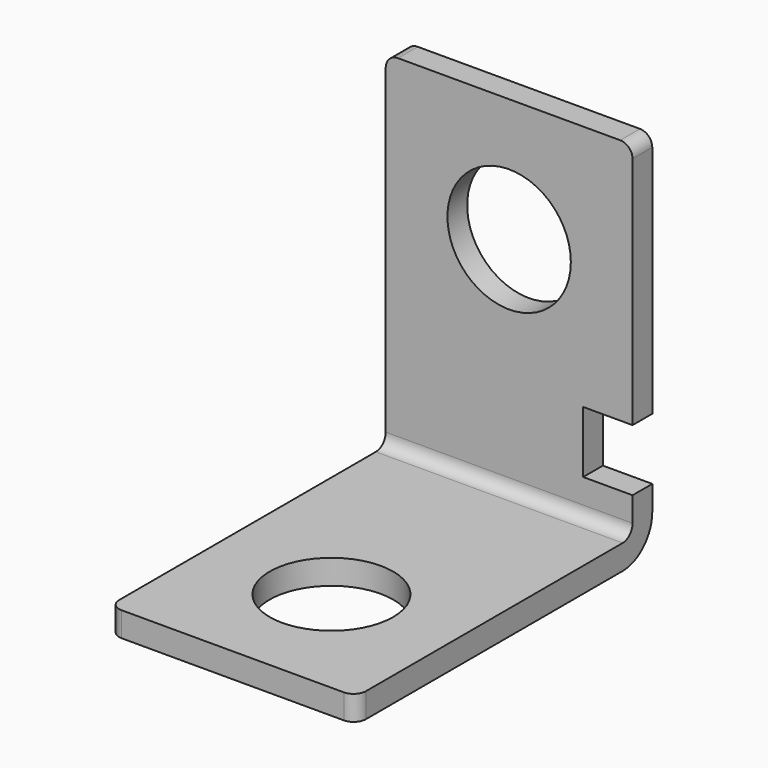
from build123d import *

# Parameters (mm, degrees)
F1_DEPTH = 20
F2_R     = 5
F3_DEPTH = 25
F4_R     = 5
F4_W     = 4
F4_H     = 5
F5_DEPTH = 25
F6_R     = 1


with BuildPart() as f1:
    # F0 (on Right) → F1 (new body)
    with BuildSketch(Plane.YZ):
        with BuildLine():
            Line((-22.282361, 2), (-22.282361, 0))
            Line((-22.282361, 0), (4.717639, 0))
            ThreePointArc((4.717639, 0), (6.838959, 0.87868), (7.717639, 3))
            Line((7.717639, 3), (7.717639, 30))
            Line((7.717639, 30), (5.717639, 30))
            Line((5.717639, 30), (5.717639, 3))
            ThreePointArc((5.717639, 3), (5.424745, 2.292893), (4.717639, 2))
            Line((4.717639, 2), (-22.282361, 2))
        make_face()
    extrude(amount=F1_DEPTH)

    # F2 (on face) → F3 (cut)
    with BuildSketch(Plane.XY.offset(2)):
        with Locations((10, -12.282361)):
            Circle(F2_R)
    extrude(amount=-F3_DEPTH, mode=Mode.SUBTRACT)

    # F4 (on face) → F5 (cut)
    with BuildSketch(Plane.XZ.offset(-5.717639)):
        with Locations((10, 20)):
            Circle(F4_R)
        with Locations((18, 7.5)):
            Rectangle(F4_W, F4_H)
    extrude(amount=-F5_DEPTH, mode=Mode.SUBTRACT)

    # F6
    f6_edges = [f1.edges().sort_by_distance(p)[0] for p in [
        (20, 6.717639, 30),
        (20, -22.282361, 1),
        (0, -22.282361, 1),
        (0, 6.717639, 30),
    ]]
    fillet(f6_edges, radius=F6_R)


solid = f1.part
